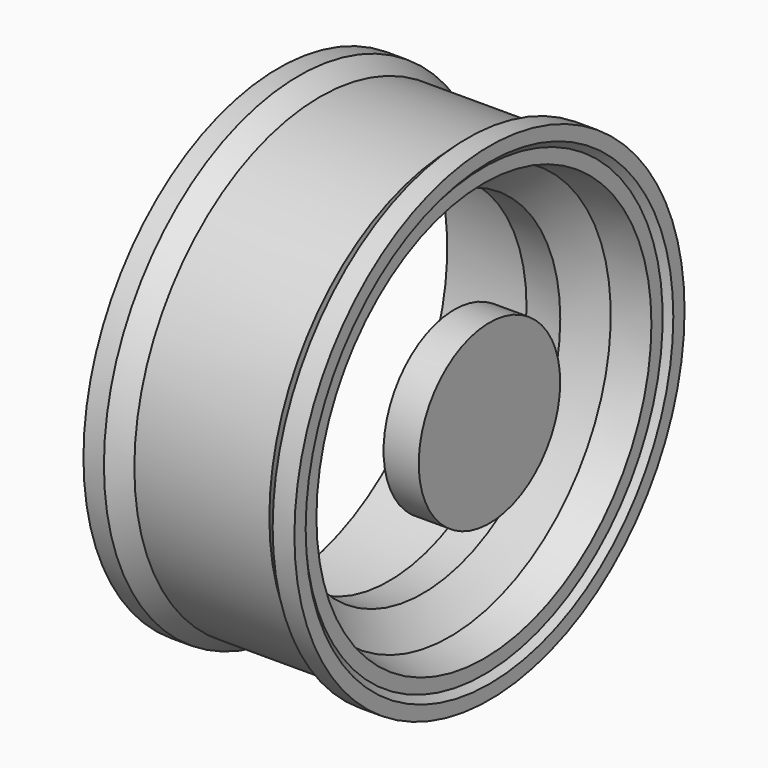
from build123d import *

# Parameters (mm, degrees)
F4_R     = 62.854326
F5_DEPTH = 25


with BuildPart() as f2:
    # F0 (on Top) → F2 (revolve)
    with BuildSketch(Plane.XY):
        Polygon((0, 23.387559), (0, 0), (14.559078, 0), (29.489574, 8.387559), (125.471322, 8.387559), (134.536272, 0), (150, 0), (150, 10), (146.04897, 14.515458), (146.04897, 24.515458), (121.713541, 30.241443), (102.517192, 51.115619), (78.521753, 51.115619), (59.325405, 23.387559), align=None)
    revolve(axis=Axis((85.476985, 173.387559, 0), (1, 0, 0)))


with BuildPart() as f5:
    # F4 (on face) → F5 (new body)
    with BuildSketch(Plane.YZ.offset(150)):
        with Locations((173.372105, 0)):
            Circle(F4_R)
    extrude(amount=-F5_DEPTH)


solid = Compound([f2.part, f5.part])
